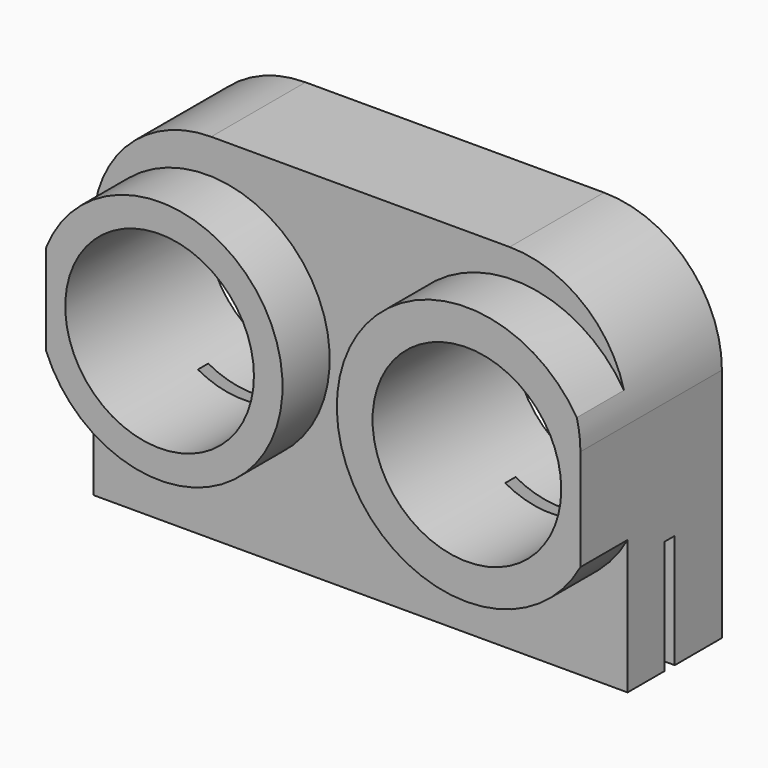
from build123d import *

# Parameters (mm, degrees)
F0_W          = 45.31
F0_H          = 30
F0_R          = 8
F1_DEPTH      = 15
F2_W          = 1.1
F2_H          = 12
F3_DEPTH      = 25
F3_DEPTH_BACK = 25
F5_W          = 59.0507443994
F5_H          = 44.4323215634
F5_R          = 10.3976804266
F5_R_2        = 11
F6_DEPTH      = 5
F7_R          = 10


with BuildPart() as f1:
    # F0 (on Front) → F1 (new body)
    with BuildSketch(Plane.XZ):
        with Locations((0, -1.6586469859)):
            Rectangle(F0_W, F0_H)
        with Locations((-13.03, 0)):
            Circle(F0_R, mode=Mode.SUBTRACT)
        with Locations((13.03, 0)):
            Circle(F0_R, mode=Mode.SUBTRACT)
    extrude(amount=F1_DEPTH)

    # F2 (on Right) → F3 (cut, two sides)
    with BuildSketch(Plane.YZ) as f3_sk:
        with Locations((-5.55, -13)):
            Rectangle(F2_W, F2_H)
    extrude(amount=-F3_DEPTH, mode=Mode.SUBTRACT)
    extrude(f3_sk.sketch, amount=F3_DEPTH_BACK, mode=Mode.SUBTRACT)

    # F5 (on offset) → F6 (cut)
    with BuildSketch(Plane.XZ.offset(15)):
        with Locations((2.6295455173, 0.7389681414)):
            Rectangle(F5_W, F5_H)
        with Locations((-13, 0)):
            Circle(F5_R, mode=Mode.SUBTRACT)
        with Locations((13, 0)):
            Circle(F5_R_2, mode=Mode.SUBTRACT)
    extrude(amount=-F6_DEPTH, mode=Mode.SUBTRACT)

    # F7
    f7_edges = [f1.edges().sort_by_distance(p)[0] for p in [
        (22.655, -5, 13.341353),
        (-22.655, -5, 13.341353),
    ]]
    fillet(f7_edges, radius=F7_R)


solid = f1.part
